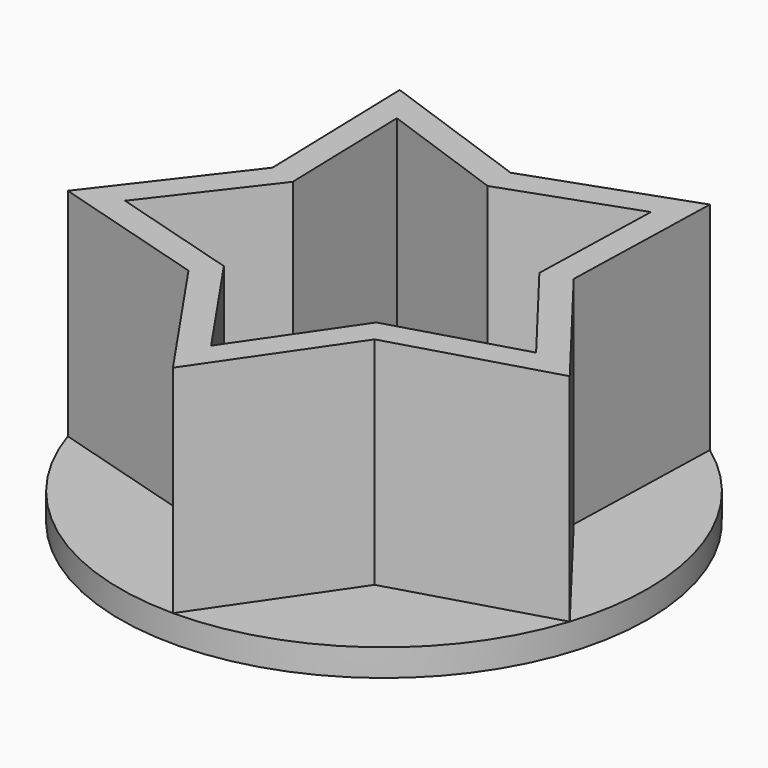
from build123d import *

# Parameters (mm, degrees)
F1_DEPTH = 25.4
F2_R     = 31.016281
F2_R_2   = 3.175
F3_DEPTH = 3.175


with BuildPart() as f1:
    # F0 (on Top) → F1 (new body)
    with BuildSketch(Plane.XY):
        Polygon((29.498236, -9.584558), (17.698942, 5.750735), (18.230913, 25.092698), (0, 18.609769), (-18.230913, 25.092698), (-17.698942, 5.750735), (-29.498236, -9.584558), (-10.938548, -15.055619), (0, -31.016281), (10.938548, -15.055619), align=None)
        Polygon((8.957847, -12.329419), (0, -25.4), (-8.957847, -12.329419), (-24.156836, -7.849032), (-14.494101, 4.709419), (-14.929745, 20.549032), (0, 15.24), (14.929745, 20.549032), (14.494101, 4.709419), (24.156836, -7.849032), align=None, mode=Mode.SUBTRACT)
    extrude(amount=F1_DEPTH)

    # F2 (on face) → F3 (join)
    with BuildSketch(Plane(origin=(0, 0, 0), x_dir=(1, 0, 0), z_dir=(0, 0, -1))):
        Circle(F2_R)
        Circle(F2_R_2, mode=Mode.SUBTRACT)
    extrude(amount=F3_DEPTH)


solid = f1.part
